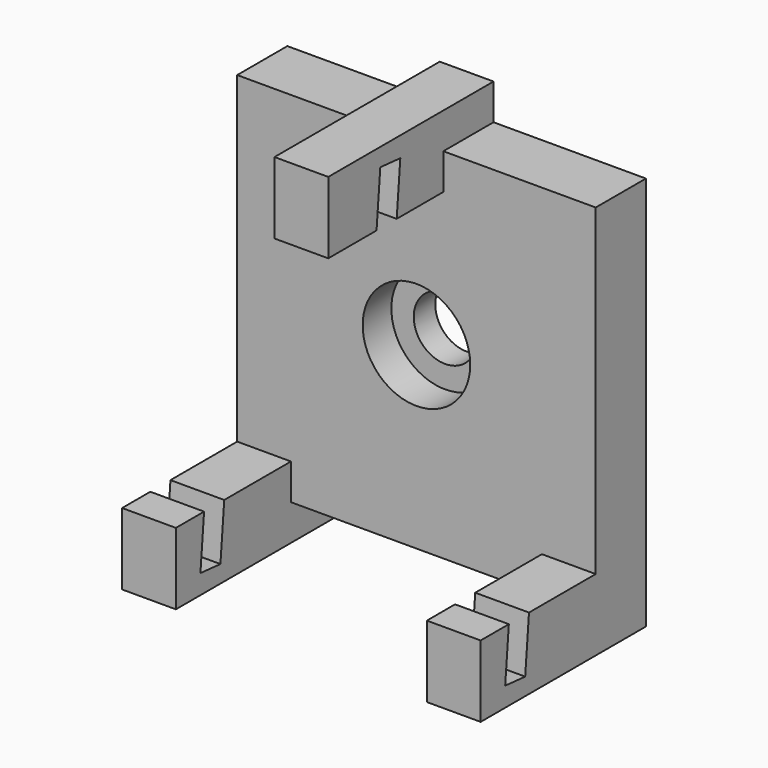
from build123d import *

# Parameters (mm, degrees)
F0_W     = 20
F0_H     = 20
F0_R     = 1.75
F1_DEPTH = 3.5
F2_R     = 3
F3_DEPTH = 2
F4_W     = 3
F4_H     = 2
F4_H_2   = 4
F5_DEPTH = 15
F6_W     = 5.121377
F6_H     = 27.98892
F7_DEPTH = 25


with BuildPart() as f1:
    # F0 (on Front) → F1 (new body)
    with BuildSketch(Plane.XZ):
        with Locations((10, 10)):
            Rectangle(F0_W, F0_H)
        with Locations((10, 10)):
            Circle(F0_R, mode=Mode.SUBTRACT)
    extrude(amount=F1_DEPTH)

    # F2 (on face) → F3 (cut)
    with BuildSketch(Plane.XZ.offset(3.5)):
        with Locations((10, 10)):
            Circle(F2_R)
    extrude(amount=-F3_DEPTH, mode=Mode.SUBTRACT)

    # F4 (on face) → F5 (join)
    with BuildSketch(Plane(origin=(0, 0, 0), x_dir=(-1, 0, 0), z_dir=(0, 1, 0))):
        with Locations((-1.5, -1)):
            Rectangle(F4_W, F4_H)
        with Locations((-10, 20)):
            Rectangle(F4_W, F4_H_2)
        with Locations((-1.5, 0)):
            Rectangle(F4_W, F4_H_2)
        with Locations((-18.5, 0)):
            Rectangle(F4_W, F4_H_2)
    extrude(amount=-F5_DEPTH)

    # F6 (on face) → F7 (cut)
    with BuildSketch(Plane(origin=(0, 0, 0), x_dir=(0, -1, 0), z_dir=(-1, 0, 0))):
        Polygon((7.894673, 21), (6.5, 20.877982), (8.417426, -1.038301), (9.812099, -0.916283), align=None)
        with Locations((14.084454, 9.811153)):
            Rectangle(F6_W, F6_H)
    extrude(amount=-F7_DEPTH, mode=Mode.SUBTRACT)


solid = f1.part
